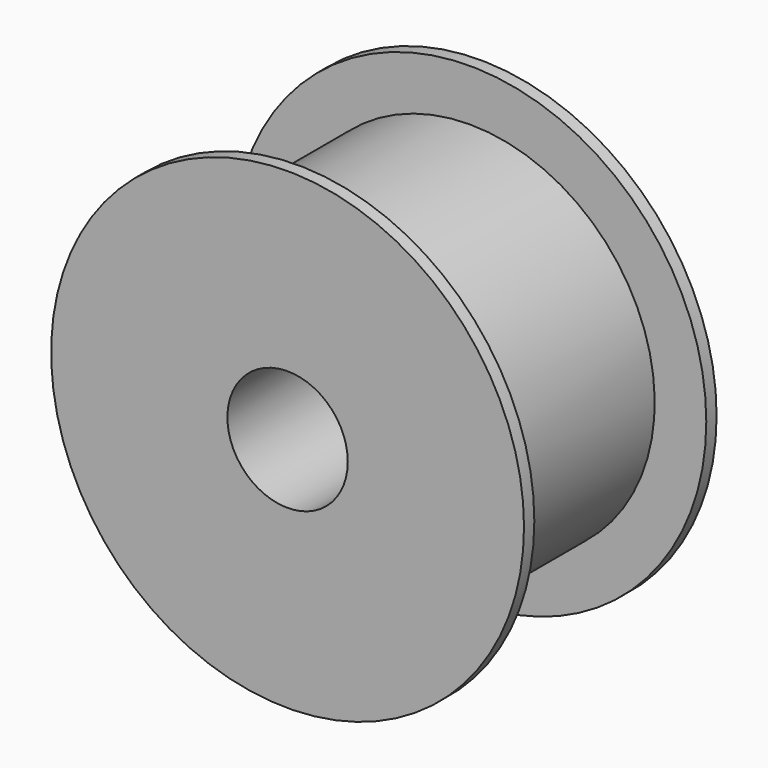
from build123d import *

# Parameters (mm, degrees)
F0_R     = 27.5
F1_DEPTH = 28
F2_W     = 25
F2_H     = 6
F4_R     = 7
F5_DEPTH = 28.001


with BuildPart() as f1:
    # F0 (on Front) → F1 (new body)
    with BuildSketch(Plane.XZ):
        Circle(F0_R)
    extrude(amount=F1_DEPTH)

    # F2 (on Right) → F3 (revolve, cut)
    with BuildSketch(Plane.YZ):
        with Locations((-14, 24.5)):
            Rectangle(F2_W, F2_H)
    revolve(axis=Axis((0, 0, 0), (0, 1, 0)), mode=Mode.SUBTRACT)

    # F4 (on Front) → F5 (cut, through all)
    with BuildSketch(Plane.XZ):
        Circle(F4_R)
    extrude(amount=F5_DEPTH, mode=Mode.SUBTRACT)


solid = f1.part
